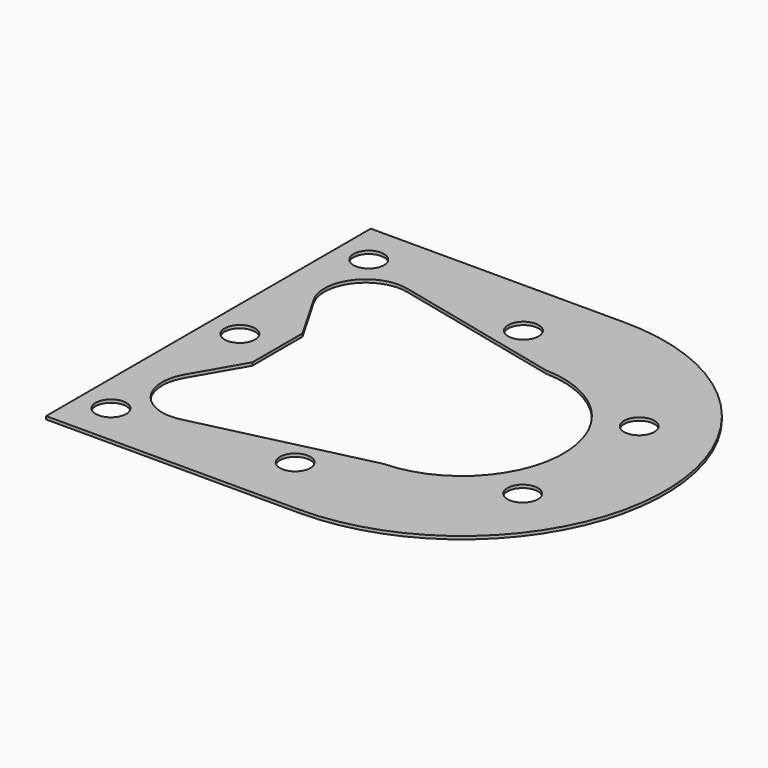
from build123d import *

# Parameters (mm, degrees)
F1_DEPTH = 0.381
F3_D     = 3.81


with BuildPart() as f1:
    # F0 (on Top) → F1 (new body)
    with BuildSketch(Plane.XY):
        with BuildLine():
            Line((31.75, 25.4), (0, 25.4))
            Line((0, 25.4), (0, -25.4))
            Line((0, -25.4), (31.75, -25.4))
            ThreePointArc((31.75, -25.4), (57.15, 0), (31.75, 25.4))
        make_face()
        with BuildLine():
            ThreePointArc((32.089681, 12.695457), (44.45, 0), (32.089681, -12.695457))
            Line((32.089681, -12.695457), (10.704241, -17.719541))
            ThreePointArc((10.704241, -17.719541), (5.386069, -15.775004), (5.0596, -10.1219))
            Line((5.0596, -10.1219), (8.636, -3.927393))
            Line((8.636, -3.927393), (8.636, 3.927393))
            Line((8.636, 3.927393), (5.0596, 10.1219))
            ThreePointArc((5.0596, 10.1219), (5.386069, 15.775004), (10.704241, 17.719541))
            Line((10.704241, 17.719541), (32.089681, 12.695457))
        make_face(mode=Mode.SUBTRACT)
    extrude(amount=F1_DEPTH)

    # F3 (through all)
    with Locations(Plane.XY.offset(0.381)):
        with Locations((3.937, 20.1676), (3.937, 0), (3.937, -20.1676), (25.146, -17.8562), (46.6344, -9.1186), (46.6344, 9.1186), (25.146, 17.8562)):
            Hole(F3_D / 2)


solid = f1.part
